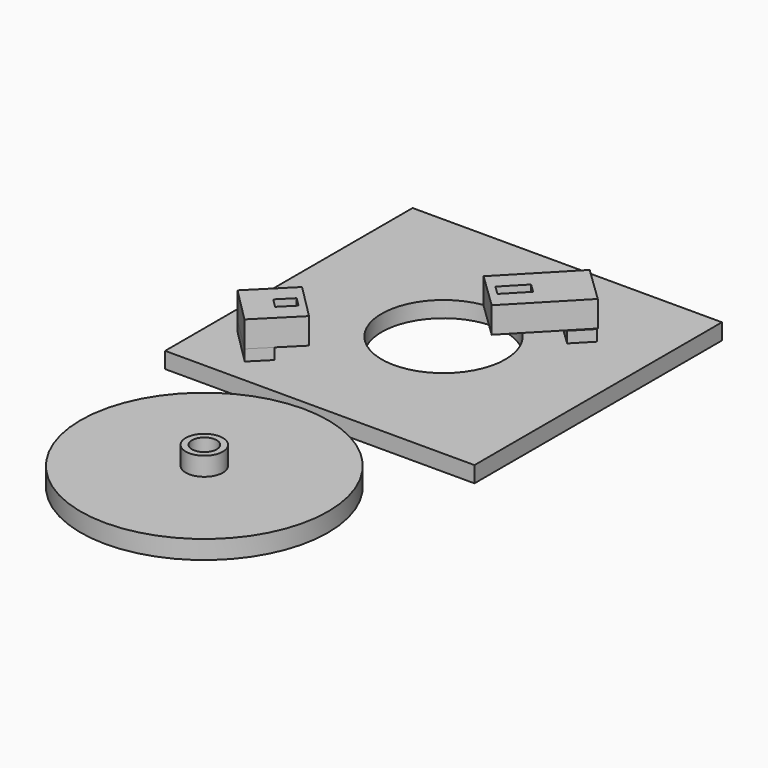
from build123d import *

# Parameters (mm, degrees)
SKETCH005_AS_DRAWN_W                      = 2.018315
SKETCH005_AS_DRAWN_H                      = 4.540272
EXTRUDE002_DEPTH                          = 4.5
EXTRUDE002_ONTO_SKETCH005_PLACEMENT_ANGLE = 136
BOX004_W                                  = 8
BOX004_H                                  = 13.5
BOX004_DEPTH                              = 4.2
BOX004_PLACEMENT_ANGLE                    = 136
BOX002_W                                  = 8
BOX002_H                                  = 3.8
BOX002_DEPTH                              = 1.8
BOX002_PLACEMENT_ANGLE                    = 136
SKETCH006_AS_DRAWN_W                      = 2.0548
SKETCH006_AS_DRAWN_H                      = 2.98173
EXTRUDE003_DEPTH                          = 4.5
EXTRUDE003_ONTO_SKETCH006_PLACEMENT_ANGLE = 135
BOX003_W                                  = 8
BOX003_H                                  = 8.2
BOX003_DEPTH                              = 4.2
BOX003_PLACEMENT_ANGLE                    = 135
BOX001_W                                  = 8
BOX001_H                                  = 3.8
BOX001_DEPTH                              = 1.8
BOX001_PLACEMENT_ANGLE                    = 135
CYLINDER_R                                = 10
CYLINDER_DEPTH                            = 2.6
BOX_W                                     = 50
BOX_H                                     = 50
BOX_DEPTH                                 = 2.6
CYLINDER001_R                             = 20
CYLINDER001_DEPTH                         = 3
SKETCH002_R                               = 3
SKETCH002_R_2                             = 2
EXTRUDE001_DEPTH                          = 6


with BuildPart() as extrude002:
    # Sketch005 as drawn → Extrude002 (new)
    with BuildSketch(Plane.XY):
        with Locations((3.98714, 10.110961)):
            Rectangle(SKETCH005_AS_DRAWN_W, SKETCH005_AS_DRAWN_H)
    extrude(amount=EXTRUDE002_DEPTH)


with BuildPart() as extrude002_1:
    # Extrude002 onto Sketch005 placement: moved
    add(extrude002.part.moved(Location((47.02, 42.01, 12.52))).rotate(Axis((47.02, 42.01, 12.52), (0, 0, 1)), EXTRUDE002_ONTO_SKETCH005_PLACEMENT_ANGLE))


with BuildPart() as extrude002_2:
    # Extrude002 placement: moved
    add(extrude002_1.part.moved(Location((0, 0, -4.5))))


with BuildPart() as cut003:
    # Box004 → Box004 (new body)
    with BuildSketch(Plane.XY):
        with Locations((4, 6.75)):
            Rectangle(BOX004_W, BOX004_H)
    extrude(amount=BOX004_DEPTH)


with BuildPart() as cut003_1:
    # Box004 placement: moved
    add(cut003.part.moved(Location((47.02, 42.01, 8.32))).rotate(Axis((47.02, 42.01, 8.32), (0, 0, 1)), BOX004_PLACEMENT_ANGLE))

    # Cut003: cut Extrude002
    add(extrude002_2.part, mode=Mode.SUBTRACT)


with BuildPart() as cut003_2:
    # Cut003 placement: moved
    add(cut003_1.part.moved(Location((-5.975619, -5.901068, -3.867182))))


with BuildPart() as fusion:
    # Box002 → Box002 (new body)
    with BuildSketch(Plane.XY):
        with Locations((4, 1.9)):
            Rectangle(BOX002_W, BOX002_H)
    extrude(amount=BOX002_DEPTH)


with BuildPart() as fusion_1:
    # Box002 placement: moved
    add(fusion.part.moved(Location((41, 36, 2.6))).rotate(Axis((41, 36, 2.6), (0, 0, 1)), BOX002_PLACEMENT_ANGLE))

    # Fusion: union Cut003
    add(cut003_2.part)


with BuildPart() as extrude003:
    # Sketch006 as drawn → Extrude003 (new)
    with BuildSketch(Plane.XY):
        with Locations((4.015499, 2.494238)):
            Rectangle(SKETCH006_AS_DRAWN_W, SKETCH006_AS_DRAWN_H)
    extrude(amount=EXTRUDE003_DEPTH)


with BuildPart() as extrude003_1:
    # Extrude003 onto Sketch006 placement: moved
    add(extrude003.part.moved(Location((15.55, 9.66, 12.99))).rotate(Axis((15.55, 9.66, 12.99), (0, 0, 1)), EXTRUDE003_ONTO_SKETCH006_PLACEMENT_ANGLE))


with BuildPart() as extrude003_2:
    # Extrude003 placement: moved
    add(extrude003_1.part.moved(Location((0, 0, -4.5))))


with BuildPart() as cut004:
    # Box003 → Box003 (new body)
    with BuildSketch(Plane.XY):
        with Locations((4, 4.1)):
            Rectangle(BOX003_W, BOX003_H)
    extrude(amount=BOX003_DEPTH)


with BuildPart() as cut004_1:
    # Box003 placement: moved
    add(cut004.part.moved(Location((15.55, 9.66, 8.79))).rotate(Axis((15.55, 9.66, 8.79), (0, 0, 1)), BOX003_PLACEMENT_ANGLE))

    # Cut004: cut Extrude003
    add(extrude003_2.part, mode=Mode.SUBTRACT)


with BuildPart() as cut004_2:
    # Cut004 placement: moved
    add(cut004_1.part.moved(Location((-0.080851, 0.078243, -4.376037))))


with BuildPart() as fusion001:
    # Box001 → Box001 (new body)
    with BuildSketch(Plane.XY):
        with Locations((4, 1.9)):
            Rectangle(BOX001_W, BOX001_H)
    extrude(amount=BOX001_DEPTH)


with BuildPart() as fusion001_1:
    # Box001 placement: moved
    add(fusion001.part.moved(Location((12.36, 6.67, 2.6))).rotate(Axis((12.36, 6.67, 2.6), (0, 0, 1)), BOX001_PLACEMENT_ANGLE))

    # Fusion001: union Cut004
    add(cut004_2.part)


with BuildPart() as cylinder:
    # Cylinder → Cylinder (new body)
    with BuildSketch(Plane(origin=(25, 25, 0), x_dir=(1, 0, 0), z_dir=(0, 0, 1))):
        Circle(CYLINDER_R)
    extrude(amount=CYLINDER_DEPTH)


with BuildPart() as fusion002:
    # Box → Box (new body)
    with BuildSketch(Plane.XY):
        with Locations((25, 25)):
            Rectangle(BOX_W, BOX_H)
    extrude(amount=BOX_DEPTH)

    # Cut: cut Cylinder
    add(cylinder.part, mode=Mode.SUBTRACT)

    # Fusion002: union Fusion, Fusion001
    add(fusion_1.part)
    add(fusion001_1.part)


with BuildPart() as cylinder001:
    # Cylinder001 → Cylinder001 (new body)
    with BuildSketch(Plane(origin=(25.88, -24.43, 1.58), x_dir=(1, 0, 0), z_dir=(0, 0, 1))):
        Circle(CYLINDER001_R)
    extrude(amount=CYLINDER001_DEPTH)


with BuildPart() as extrude001:
    # Sketch002 → Extrude001 (new body)
    with BuildSketch(Plane.XY):
        with Locations((25.84182, 74.524612)):
            Circle(SKETCH002_R)
        with Locations((25.84182, 74.524612)):
            Circle(SKETCH002_R_2, mode=Mode.SUBTRACT)
    extrude(amount=EXTRUDE001_DEPTH)


with BuildPart() as extrude001_1:
    # Extrude001 placement: moved
    add(extrude001.part.moved(Location((0.03818, -98.954612, 1.58))))


with BuildPart() as fusion003:
    # Fusion003 base: copy of Extrude001
    add(extrude001_1.part)

    # Fusion003: union Cylinder001
    add(cylinder001.part)


with BuildPart() as fusion004:
    # Fusion004 base: copy of Cylinder001
    add(cylinder001.part)

    # Fusion004: union Extrude001
    add(extrude001_1.part)


solid = Compound([fusion002.part, fusion003.part, fusion004.part])
